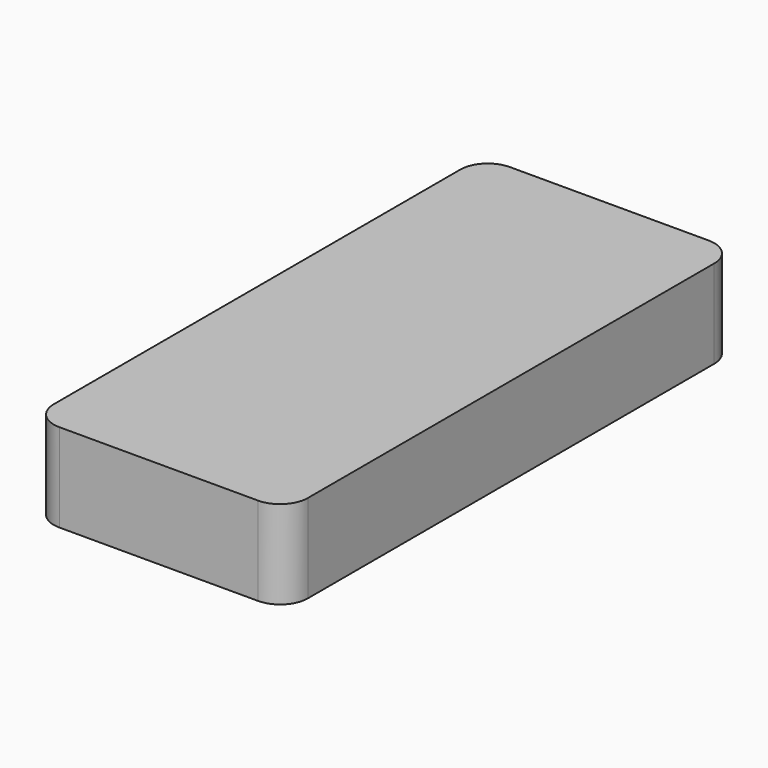
from build123d import *

# Parameters (mm, degrees)
F0_W     = 23
F0_H     = 51
F1_DEPTH = 8
F2_R     = 2.5


with BuildPart() as f1:
    # F0 (on Top) → F1 (new body)
    with BuildSketch(Plane.XY):
        Rectangle(F0_W, F0_H)
    extrude(amount=F1_DEPTH)

    # F2
    f2_edges = [f1.edges().sort_by_distance(p)[0] for p in [
        (-11.5, -25.5, 4),
        (11.5, -25.5, 4),
        (11.5, 25.5, 4),
        (-11.5, 25.5, 4),
    ]]
    fillet(f2_edges, radius=F2_R)


with BuildPart() as f3_1:
    # F3: copy of F1
    add(f1.part)


solid = Compound([f1.part, f3_1.part])
